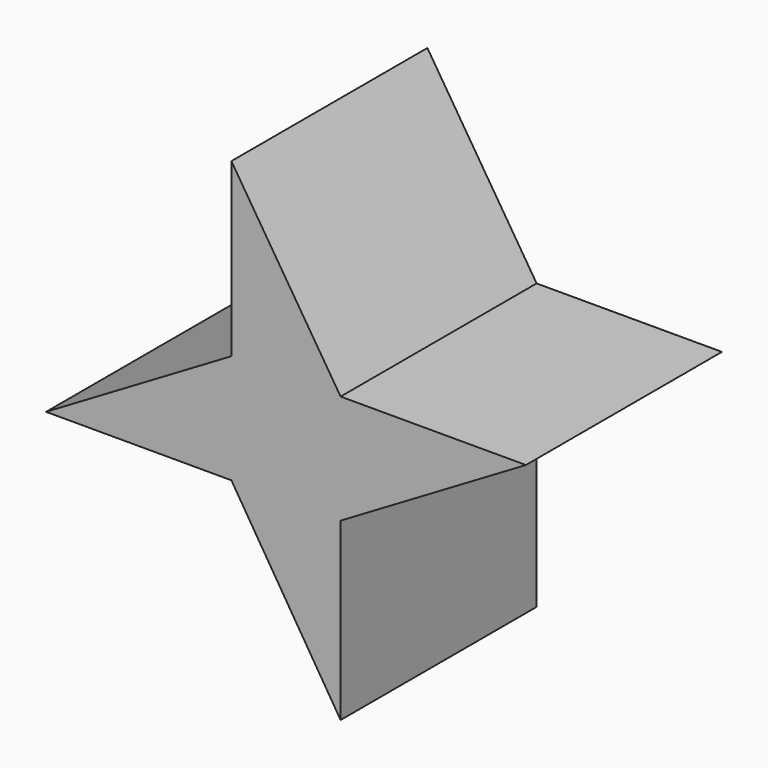
from build123d import *

# Parameters (mm, degrees)
F0_W     = 11.1455010677
F0_H     = 11.1455010677
F1_DEPTH = 25


with BuildPart() as f1:
    # F0 (on Front) → F1 (new body)
    with BuildSketch(Plane.XZ):
        Polygon((3.4639391611, 41.4549691979), (22.3714864994, 41.4549691979), (22.3714864994, 52.6004702657), align=None)
        with Locations((27.9442370333, 47.0277197318)):
            Rectangle(F0_W, F0_H)
        Polygon((33.5169875672, 23.542555845), (33.5169875672, 41.4549691979), (22.3714864994, 41.4549691979), align=None)
        Polygon((33.5169875672, 52.6004702657), (33.5169875672, 41.4549691979), (52.4245357128, 52.6004702657), align=None)
        Polygon((22.3714864994, 52.6004702657), (33.5169875672, 52.6004702657), (22.3714864994, 70.1275136257), align=None)
    extrude(amount=F1_DEPTH)


solid = f1.part
